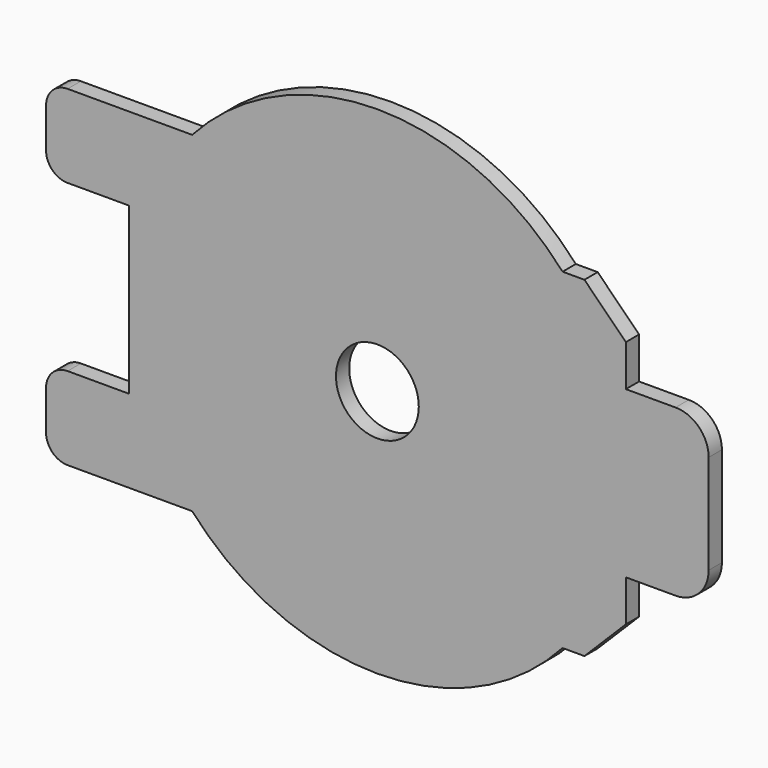
from build123d import *

# Parameters (mm, degrees)
F0_W     = 12.7
F0_H     = 25.4
F0_H_2   = 12.7
F1_DEPTH = 2.54
F3_R     = 6.35
F4_DEPTH = 12.7
F5_SIZE  = 6.35
F6_SIZE  = 6.35
F7_R     = 5.08
F8_R     = 3.302


with BuildPart() as f1:
    # F0 (on Front) → F1 (new body)
    with BuildSketch(Plane.XZ):
        with BuildLine():
            Line((38.1, 12.7), (38.1, 25.4))
            Line((38.1, 25.4), (28.398063, 25.4))
            ThreePointArc((28.398063, 25.4), (0, 38.1), (-28.398063, 25.4))
            Line((-28.398063, 25.4), (-38.1, 25.4))
            Line((-38.1, 25.4), (-38.1, 12.7))
            Line((-38.1, 12.7), (-38.1, -12.7))
            Line((-38.1, -12.7), (-38.1, -25.4))
            Line((-38.1, -25.4), (-28.398063, -25.4))
            ThreePointArc((-28.398063, -25.4), (0, -38.1), (28.398063, -25.4))
            Line((28.398063, -25.4), (38.1, -25.4))
            Line((38.1, -25.4), (38.1, -12.7))
            Line((38.1, -12.7), (38.1, 12.7))
        make_face()
        with Locations((44.45, 0)):
            Rectangle(F0_W, F0_H)
        with Locations((-44.45, 19.05)):
            Rectangle(F0_W, F0_H_2)
        with Locations((-44.45, -19.05)):
            Rectangle(F0_W, F0_H_2)
    extrude(amount=F1_DEPTH)

    # F3 (on face) → F4 (cut, symmetric)
    with BuildSketch(Plane.XZ.offset(2.54)):
        Circle(F3_R)
    extrude(amount=F4_DEPTH, both=True, mode=Mode.SUBTRACT)

    # F5
    f5_edges = [f1.edges().sort_by_distance(p)[0] for p in [
        (38.1, -1.27, 25.4),
    ]]
    chamfer(f5_edges, length=F5_SIZE)

    # F6
    f6_edges = [f1.edges().sort_by_distance(p)[0] for p in [
        (38.1, -1.27, -25.4),
    ]]
    chamfer(f6_edges, length=F6_SIZE)

    # F7
    f7_edges = [f1.edges().sort_by_distance(p)[0] for p in [
        (50.8, -1.27, 12.7),
        (50.8, -1.27, -12.7),
    ]]
    fillet(f7_edges, radius=F7_R)

    # F8
    f8_edges = [f1.edges().sort_by_distance(p)[0] for p in [
        (-50.8, -1.27, 25.4),
        (-50.8, -1.27, 12.7),
        (-50.8, -1.27, -25.4),
        (-50.8, -1.27, -12.7),
    ]]
    fillet(f8_edges, radius=F8_R)


solid = f1.part
